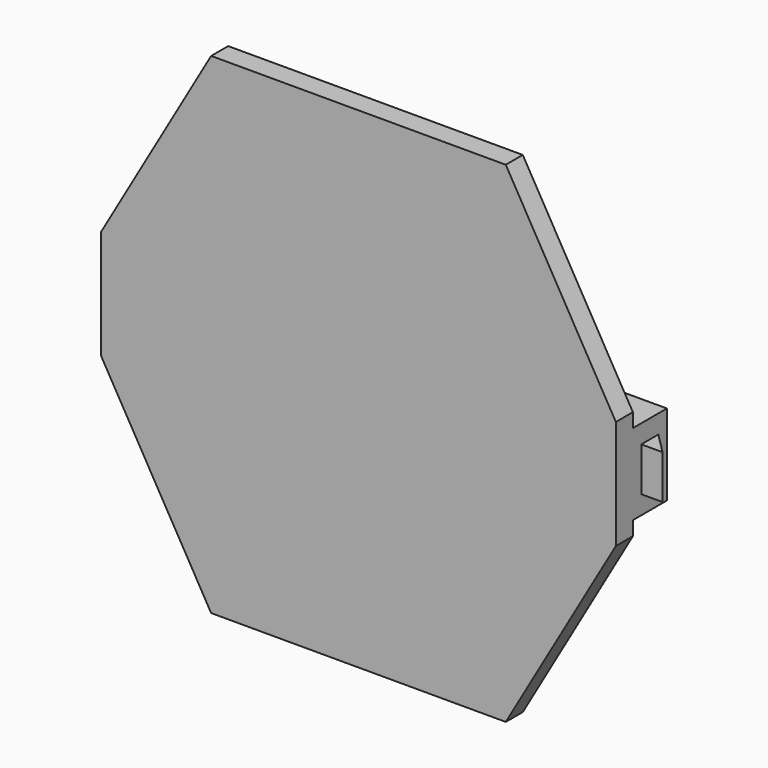
from build123d import *

# Parameters (mm, degrees)
F1_DEPTH = 20
F2_W     = 76.2
F2_H     = 76.2
F3_DEPTH = 40
F4_W     = 19.9898
F4_H     = 41.2496
F5_DEPTH = 20
F7_DEPTH = 251.162639


with BuildPart() as f1:
    # F0 (on Front) → F1 (new body)
    with BuildSketch(Plane.XZ):
        Polygon((121.926413, 229.678165), (-154.984387, 229.678165), (-258.438587, 50.490234), (-258.438587, -52.166674), (-154.984387, -231.354605), (121.926413, -231.354605), (225.380613, -52.166674), (225.380613, 50.490234), align=None)
    extrude(amount=F1_DEPTH)

    # F2 (on face) → F3 (join)
    with BuildSketch(Plane(origin=(0, 0, 0), x_dir=(-1, 0, 0), z_dir=(0, 1, 0))):
        with Locations((-187.280613, -0.817766)):
            Rectangle(F2_W, F2_H)
    extrude(amount=F3_DEPTH)

    # F4 (on face) → F5 (join)
    with BuildSketch(Plane.YZ.offset(225.380613)):
        with Locations((19.9009, -0.817766)):
            Rectangle(F4_W, F4_H)
    extrude(amount=F5_DEPTH)

    # F6 (on face) → F7 (cut, through all)
    with BuildSketch(Plane.XY.offset(19.807034)):
        Polygon((245.380613, 29.8958), (225.380613, 29.8958), (245.380613, 9.906), align=None)
    extrude(amount=-F7_DEPTH, mode=Mode.SUBTRACT)


solid = f1.part
